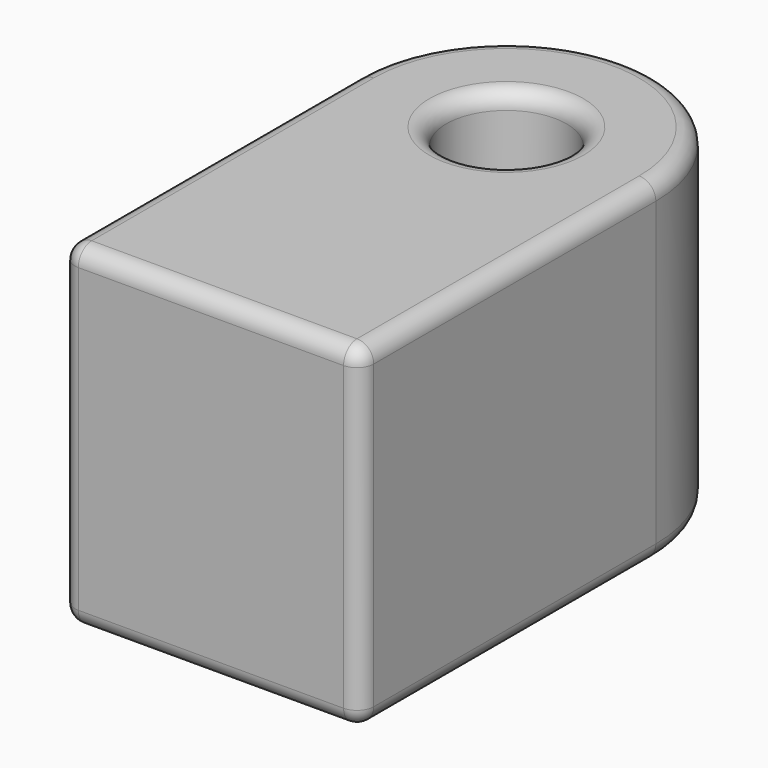
from build123d import *

# Parameters (mm, degrees)
F0_R     = 17.948255
F1_DEPTH = 100
F2_R     = 5
F3_R     = 5


with BuildPart() as f1:
    # F0 (on Top) → F1 (new body)
    with BuildSketch(Plane.XY):
        with BuildLine():
            ThreePointArc((36.747999, 35.844807), (-7.825233, 80.418039), (-52.398466, 35.844807))
            Line((-52.398466, 35.844807), (-52.398466, -74.351192))
            Line((-52.398466, -74.351192), (36.747999, -74.351192))
            Line((36.747999, -74.351192), (36.747999, 35.844807))
        make_face()
        with Locations((-7.825233, 35.844807)):
            Circle(F0_R, mode=Mode.SUBTRACT)
    extrude(amount=F1_DEPTH)

    # F2
    f2_edges = [f1.edges().sort_by_distance(p)[0] for p in [
        (-7.825233, 80.418039, 0),
        (36.747999, -19.253192, 100),
        (-7.825233, 80.418039, 100),
        (36.747999, -74.351192, 50),
        (-52.398466, -19.253192, 100),
        (-52.398466, -19.253192, 0),
        (-7.825233, -74.351192, 0),
        (-52.398466, -74.351192, 50),
        (-7.825233, -74.351192, 100),
        (36.747999, -19.253192, 0),
    ]]
    fillet(f2_edges, radius=F2_R)

    # F3
    f3_edges = [f1.edges().sort_by_distance(p)[0] for p in [
        (-25.773488, 35.844807, 100),
        (-25.773488, 35.844807, 0),
    ]]
    fillet(f3_edges, radius=F3_R)


solid = f1.part
